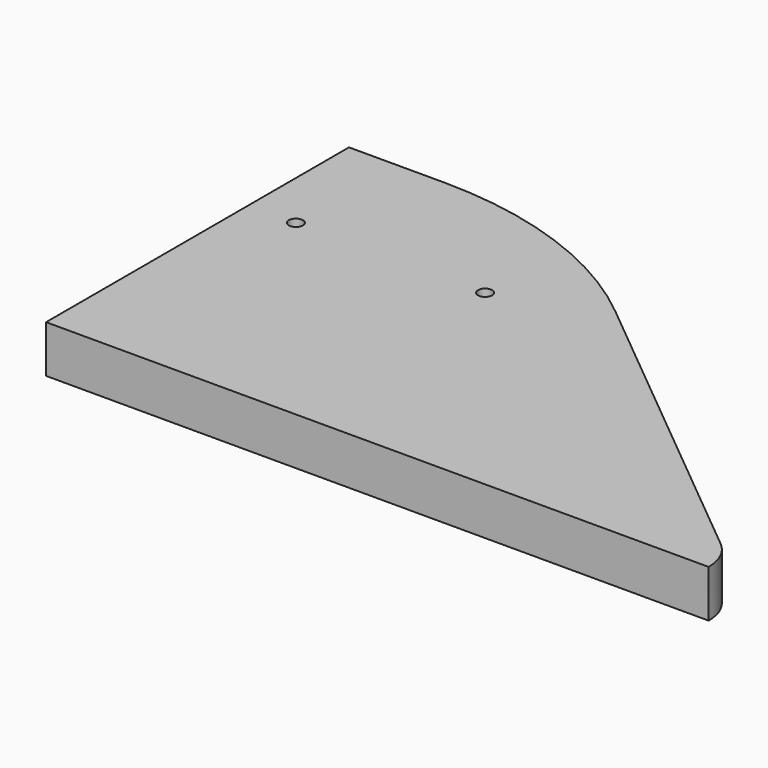
from build123d import *

# Parameters (mm, degrees)
PAD_DEPTH    = 10
SKETCH001_R  = 1.5
POCKET_DEPTH = 10.001


with BuildPart() as part:
    # Sketch → Pad (new body)
    with BuildSketch(Plane.XY):
        with BuildLine():
            Line((0, 0), (140, 0))
            ThreePointArc((140, 0), (139.04534, 4.264014), (136.363636, 7.713892))
            Line((70.909026, 61.711191), (136.363636, 7.713892))
            ThreePointArc((70.909026, 61.711191), (47.047216, 75.289097), (19.999983, 80))
            Line((0, 80), (19.999983, 80))
            Line((0, 0), (0, 80))
        make_face()
    extrude(amount=PAD_DEPTH)

    # Sketch001 → Pocket (cut, through all)
    with BuildSketch(Plane.XY.offset(10)):
        with Locations((10, 53.47)):
            Circle(SKETCH001_R)
        with Locations((50, 53.47)):
            Circle(SKETCH001_R)
    extrude(amount=-POCKET_DEPTH, mode=Mode.SUBTRACT)


solid = part.part
